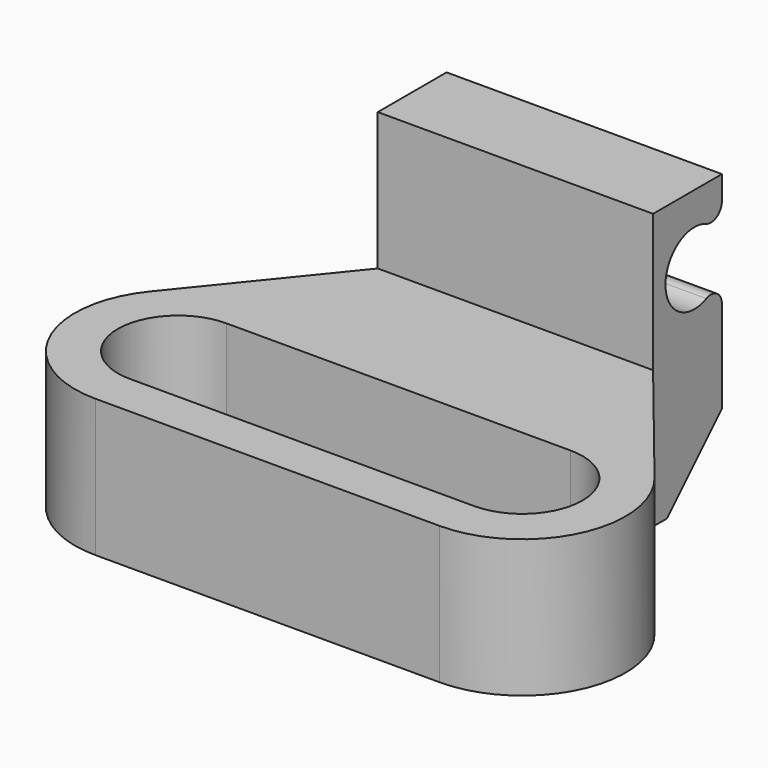
from build123d import *

# Parameters (mm, degrees)
SKETCH228_W          = 8
SKETCH228_H          = 2.5
PAD110_DEPTH         = 2
PAD110_DEPTH_BACK    = 6
SKETCH227_R          = 1.05
POCKET092_DEPTH      = 4.001
POCKET092_DEPTH_BACK = 4.001
PAD111_DEPTH         = 4
FILLET001_R          = 0.4
CHAMFER006_SIZE      = 2


with BuildPart() as part:
    # Sketch228 → Pad110 (new body, two sides)
    with BuildSketch(Plane.XY) as pad110_sk:
        with Locations((0, -0.25)):
            Rectangle(SKETCH228_W, SKETCH228_H)
    extrude(amount=PAD110_DEPTH)
    extrude(pad110_sk.sketch, amount=-PAD110_DEPTH_BACK)

    # Sketch227 → Pocket092 (cut, two sides)
    with BuildSketch(Plane.YZ) as pocket092_sk:
        Circle(SKETCH227_R)
    extrude(amount=-POCKET092_DEPTH, mode=Mode.SUBTRACT)
    extrude(pocket092_sk.sketch, amount=POCKET092_DEPTH_BACK, mode=Mode.SUBTRACT)

    # Sketch229 (on Face2 of Pocket092) → Pad111 (join)
    with BuildSketch(Plane(origin=(0, 0, -6), x_dir=(1, 0, 0), z_dir=(0, 0, -1))):
        with BuildLine():
            ThreePointArc((-5, 9.25), (-6.75, 7.5), (-5, 5.75))
            Line((-5, 5.75), (0, 5.75))
            Line((0, 5.75), (0, 1.5))
            Line((0, 1.5), (-4, 1.5))
            Line((-4, 1.5), (-7.331001, 5.6115))
            ThreePointArc((-5, 10.5), (-7.707905, 8.79122), (-7.331001, 5.6115))
            Line((0, 10.5), (-5, 10.5))
            Line((0, 10.5), (0, 9.25))
            Line((-5, 9.25), (0, 9.25))
        make_face()
    pad111 = extrude(amount=-PAD111_DEPTH)

    # Mirrored009: Pad111 across Sketch229 V_Axis
    add(pad111.mirror(Plane(origin=(0, 0, -6), x_dir=(0, 0, -1), z_dir=(1, 0, 0))))

    # Fillet001
    fillet001_edges = [part.edges().sort_by_distance(p)[0] for p in [
        (0, 1, 0.320156),
        (0, 1, -0.320156),
    ]]
    fillet(fillet001_edges, radius=FILLET001_R)

    # Chamfer006
    chamfer006_edges = [part.edges().sort_by_distance(p)[0] for p in [
        (0, 1, -6),
    ]]
    chamfer(chamfer006_edges, length=CHAMFER006_SIZE)


with BuildPart() as part_1:
    # Body081 placement: moved
    add(part.part.moved(Location((162, 7.5, -13))))


solid = part_1.part
